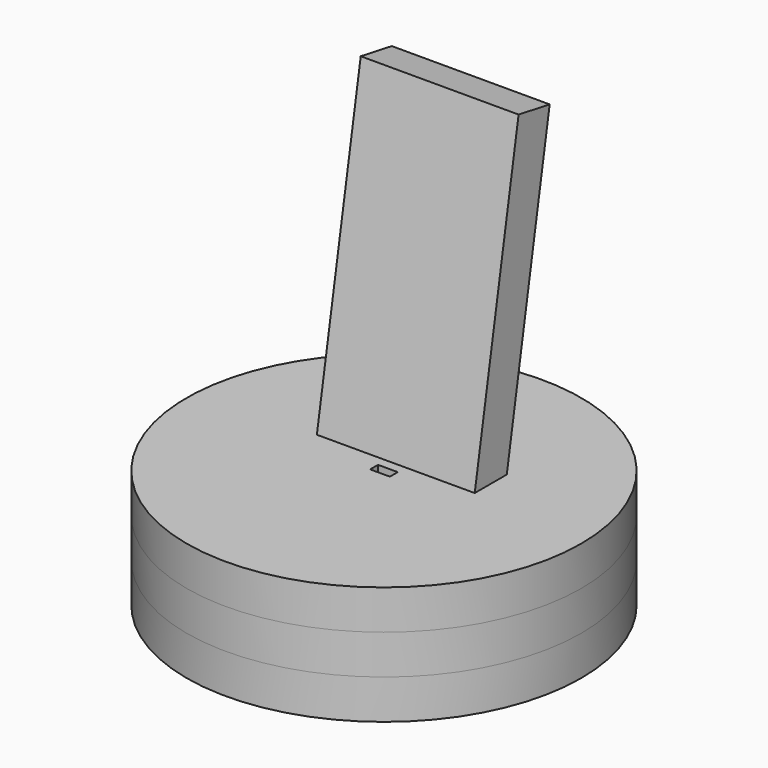
from build123d import *

# Parameters (mm, degrees)
F0_R      = 63.5
F1_DEPTH  = 12.7
F2_DEPTH  = 12.7
F3_R      = 50.8
F4_DEPTH  = 12.7
F3_R_2    = 63.5
F5_DEPTH  = 12.7
F6_R      = 50.8
F7_DEPTH  = 6.35
F8_R      = 3.175
F9_DEPTH  = 6.35
F11_DEPTH = 6.35
F13_DEPTH = 3.175
F14_R     = 50.796301998
F15_DEPTH = 6.35
F16_W     = 6.35
F16_H     = 3.175
F17_DEPTH = 6.35
F18_W     = 12.7
F18_H     = 101.6
F19_DEPTH = 25.4
F20_DEPTH = 25.4
F22_ANGLE = 10


with BuildPart() as f1:
    # F0 (on Top) → F1 (new body)
    with BuildSketch(Plane.XY):
        Circle(F0_R)
    extrude(amount=F1_DEPTH)


with BuildPart() as f2:
    # F2 (new): a face of the model
    f2_faces = [f1.part.faces().sort_by_distance(p)[0] for p in [
        (0, 0, 12.7),
    ]]
    extrude(f2_faces, amount=F2_DEPTH)

    # F3 (on face) → F4 (cut)
    with BuildSketch(Plane.XY.offset(25.4)):
        Circle(F3_R)
    extrude(amount=-F4_DEPTH, mode=Mode.SUBTRACT)


with BuildPart() as f5:
    # F3 (on face) → F5 (new body)
    with BuildSketch(Plane.XY.offset(25.4)):
        Circle(F3_R_2)
        Circle(F3_R, mode=Mode.SUBTRACT)
        Circle(F3_R)
    extrude(amount=F5_DEPTH)

    # F14 (on face) → F15 (cut)
    with BuildSketch(Plane(origin=(0, 0, 25.4), x_dir=(1, 0, 0), z_dir=(0, 0, -1))):
        Circle(F14_R)
    extrude(amount=-F15_DEPTH, mode=Mode.SUBTRACT)

    # F16 (on face) → F17 (cut)
    with BuildSketch(Plane(origin=(0, 0, 31.75), x_dir=(1, 0, 0), z_dir=(0, 0, -1))):
        Rectangle(F16_W, F16_H)
    extrude(amount=-F17_DEPTH, mode=Mode.SUBTRACT)


with BuildPart() as f1_1:
    add(f1.part)

    # F6 (on face) → F7 (cut)
    with BuildSketch(Plane.XY.offset(12.7)):
        Circle(F6_R)
    extrude(amount=-F7_DEPTH, mode=Mode.SUBTRACT)

    # F8 (on face) → F9 (cut)
    with BuildSketch(Plane.XY.offset(6.35)):
        Circle(F8_R)
    extrude(amount=-F9_DEPTH, mode=Mode.SUBTRACT)

    # F10 (on face) → F11 (cut)
    with BuildSketch(Plane.XY.offset(6.35)):
        with BuildLine():
            Line((-12.7, 25.4), (-25.4, 25.4))
            Line((-25.4, 25.4), (-38.1, 25.4))
            Line((-38.1, 25.4), (-38.1, -12.7))
            ThreePointArc((-38.1, -12.7), (-25.4, -25.4), (-12.7, -12.7))
            Line((-12.7, -12.7), (-12.7, 25.4))
        make_face()
    extrude(amount=-F11_DEPTH, mode=Mode.SUBTRACT)

    # F12 (on face) → F13 (cut)
    with BuildSketch(Plane(origin=(0, 0, 0), x_dir=(1, 0, 0), z_dir=(0, 0, -1))):
        with BuildLine():
            Line((1.5875, -63.4801531484), (1.5875, -2.749630657))
            ThreePointArc((1.5875, -2.749630657), (0, -3.175), (-1.5875, -2.749630657))
            Line((-1.5875, -2.749630657), (-1.5875, -63.4801531484))
            ThreePointArc((-1.5875, -63.4801531484), (0, -63.5), (1.5875, -63.4801531484))
        make_face()
    extrude(amount=-F13_DEPTH, mode=Mode.SUBTRACT)


with BuildPart() as f19:
    # F18 (on Right) → F19 (new body)
    with BuildSketch(Plane.YZ):
        with Locations((11.1125, 88.9)):
            Rectangle(F18_W, F18_H)
    extrude(amount=F19_DEPTH)


with BuildPart() as f20:
    # F18 (on Right) → F20 (new body)
    with BuildSketch(Plane.YZ):
        with Locations((11.1125, 88.9)):
            Rectangle(F18_W, F18_H)
    extrude(amount=-F20_DEPTH)


with BuildPart() as f19_1:
    add(f19.part)

    # F21: union F20
    add(f20.part)


with BuildPart() as f19_2:
    # F22: moved
    add(f19_1.part.rotate(Axis((12.7, 4.7625, 38.1), (-1, 0, 0)), F22_ANGLE))


solid = Compound([f2.part, f5.part, f1_1.part, f19_2.part])
